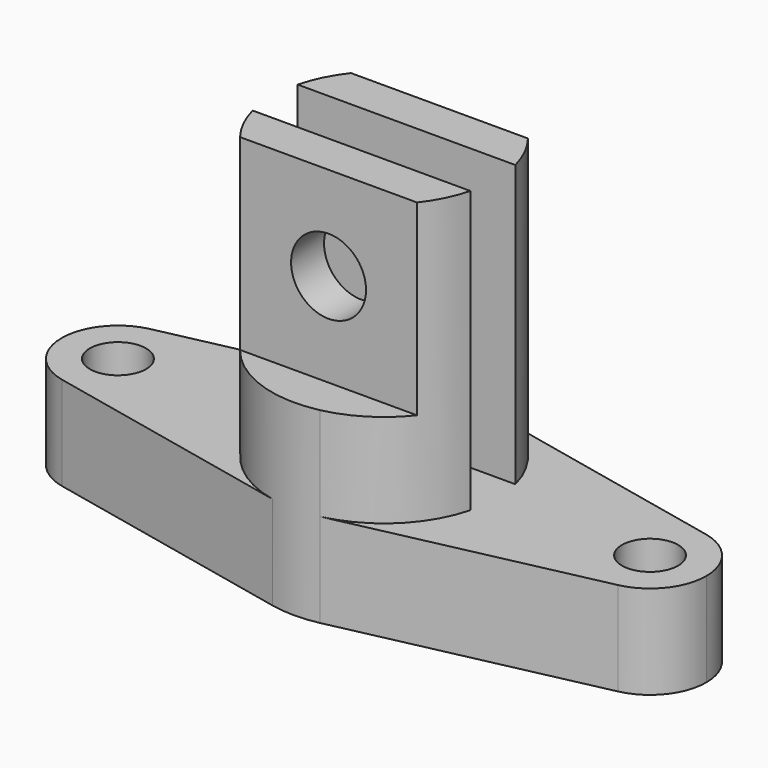
from build123d import *

# Parameters (mm, degrees)
F0_R     = 7.5
F1_DEPTH = 25
F2_DEPTH = 100
F3_W     = 80
F3_H     = 15
F4_DEPTH = 75
F5_W     = 130
F5_H     = 70
F5_W_2   = 100
F5_H_2   = 37
F6_DEPTH = 50
F7_R     = 10
F8_DEPTH = 25


with BuildPart() as f1:
    # F0 (on Top) → F1 (new body)
    with BuildSketch(Plane.XY):
        with BuildLine():
            ThreePointArc((-74.1690140845, -14.6614238644), (-61.5802126157, -11.6733716481), (-56, 0))
            ThreePointArc((-56, 0), (-61.5802126157, 11.6733716481), (-74.1690140845, 14.6614238644))
            ThreePointArc((-74.1690140845, 14.6614238644), (-86, 0), (-74.1690140845, -14.6614238644))
        make_face()
        with Locations((-71, 0)):
            Circle(F0_R, mode=Mode.SUBTRACT)
        with BuildLine():
            ThreePointArc((-74.1690140845, 14.6614238644), (-61.5802126157, 11.6733716481), (-56, 0))
            ThreePointArc((-56, 0), (-61.5802126157, -11.6733716481), (-74.1690140845, -14.6614238644))
            Line((-74.1690140845, -14.6614238644), (-6.338028169, -29.3228477288))
            ThreePointArc((-6.338028169, -29.3228477288), (-30, 0), (-6.338028169, 29.3228477288))
            Line((-6.338028169, 29.3228477288), (-74.1690140845, 14.6614238644))
        make_face()
        with BuildLine():
            ThreePointArc((6.338028169, 29.3228477288), (0, 30), (-6.338028169, 29.3228477288))
            ThreePointArc((-6.338028169, 29.3228477288), (-30, 0), (-6.338028169, -29.3228477288))
            ThreePointArc((-6.338028169, -29.3228477288), (0, -30), (6.338028169, -29.3228477288))
            ThreePointArc((6.338028169, -29.3228477288), (23.3467432961, -18.8395747687), (30, 0))
            ThreePointArc((30, 0), (23.3467432961, 18.8395747687), (6.338028169, 29.3228477288))
        make_face()
        with BuildLine():
            Line((74.1690140845, 14.6614238644), (6.338028169, 29.3228477288))
            ThreePointArc((6.338028169, 29.3228477288), (23.3467432961, 18.8395747687), (30, 0))
            ThreePointArc((30, 0), (23.3467432961, -18.8395747687), (6.338028169, -29.3228477288))
            Line((6.338028169, -29.3228477288), (74.1690140845, -14.6614238644))
            ThreePointArc((74.1690140845, -14.6614238644), (56, 0), (74.1690140845, 14.6614238644))
        make_face()
        with BuildLine():
            ThreePointArc((86, 0), (82.6733716481, 9.4197873843), (74.1690140845, 14.6614238644))
            ThreePointArc((74.1690140845, 14.6614238644), (56, 0), (74.1690140845, -14.6614238644))
            ThreePointArc((74.1690140845, -14.6614238644), (82.6733716481, -9.4197873843), (86, 0))
        make_face()
        with Locations((71, 0)):
            Circle(F0_R, mode=Mode.SUBTRACT)
    extrude(amount=F1_DEPTH)

    # F0 (on Top) → F2 (join)
    with BuildSketch(Plane.XY):
        with BuildLine():
            ThreePointArc((6.338028169, 29.3228477288), (0, 30), (-6.338028169, 29.3228477288))
            ThreePointArc((-6.338028169, 29.3228477288), (-30, 0), (-6.338028169, -29.3228477288))
            ThreePointArc((-6.338028169, -29.3228477288), (0, -30), (6.338028169, -29.3228477288))
            ThreePointArc((6.338028169, -29.3228477288), (23.3467432961, -18.8395747687), (30, 0))
            ThreePointArc((30, 0), (23.3467432961, 18.8395747687), (6.338028169, 29.3228477288))
        make_face()
    extrude(amount=F2_DEPTH)

    # F3 (on face) → F4 (cut, through all)
    with BuildSketch(Plane.XY.offset(100)):
        Rectangle(F3_W, F3_H)
    extrude(amount=-F4_DEPTH, mode=Mode.SUBTRACT)

    # F5 (on face) → F6 (cut)
    with BuildSketch(Plane.XY.offset(100)):
        Rectangle(F5_W, F5_H)
        Rectangle(F5_W_2, F5_H_2, mode=Mode.SUBTRACT)
    extrude(amount=-F6_DEPTH, mode=Mode.SUBTRACT)

    # F7 (on Front) → F8 (cut, symmetric)
    with BuildSketch(Plane.XZ):
        with Locations((0, 75)):
            Circle(F7_R)
    extrude(amount=F8_DEPTH, both=True, mode=Mode.SUBTRACT)


solid = f1.part
